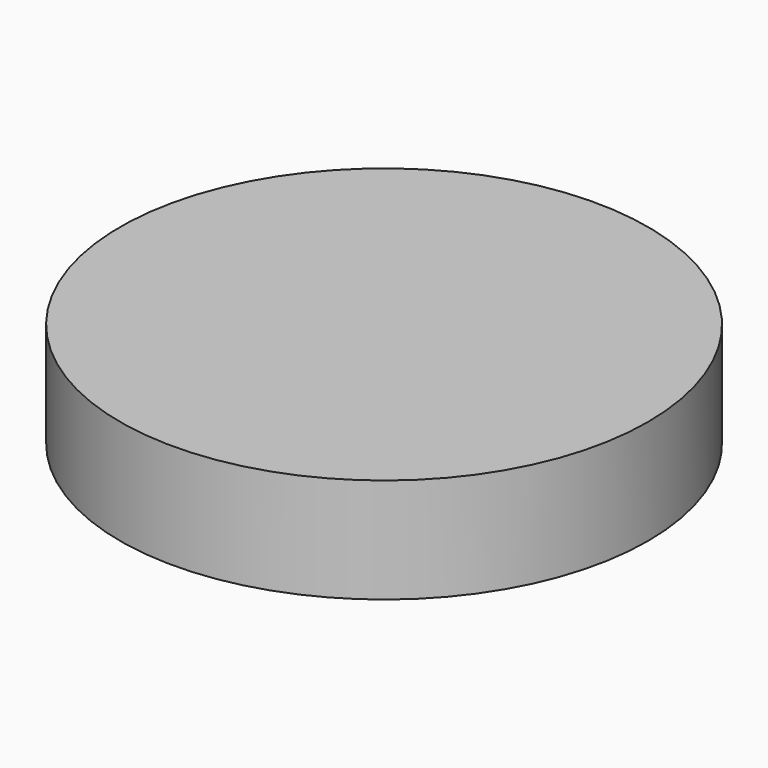
from build123d import *

# Parameters (mm, degrees)
F0_R     = 24.60625
F2_DEPTH = 25
F1_R     = 62.9664006196


with BuildPart() as f2:
    # F0 (on Top) → F2 (new body)
    with BuildSketch(Plane.XY):
        Circle(F0_R)
    extrude(amount=F2_DEPTH)


with BuildPart() as f2b:
    # F1 (on Top) → F2, piece 2 (new body)
    with BuildSketch(Plane.XY):
        Circle(F1_R)
    extrude(amount=F2_DEPTH)


solid = Compound([f2.part, f2b.part])
